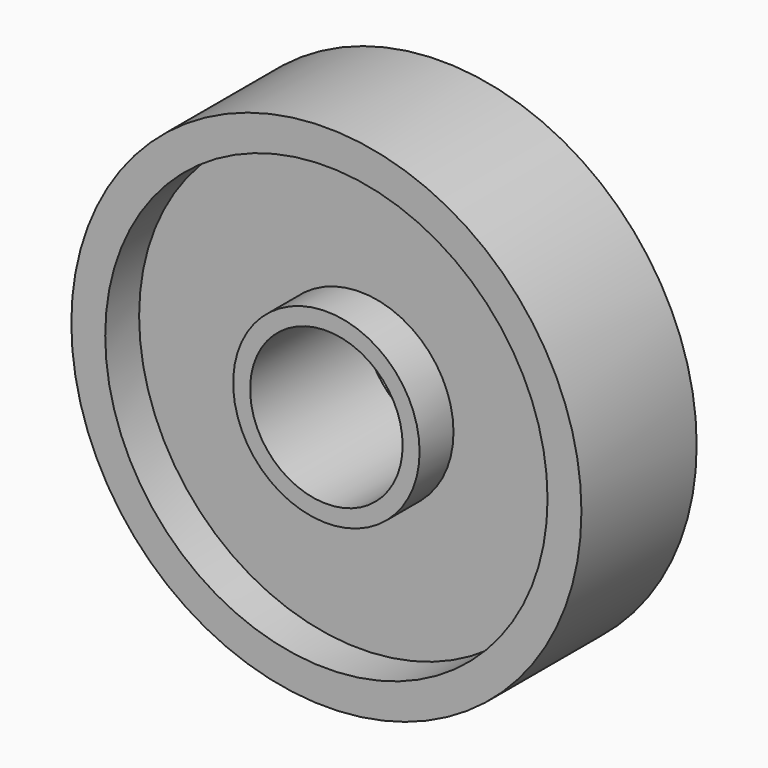
from build123d import *

# Parameters (mm, degrees)
F0_R     = 11
F0_R_2   = 9
F1_DEPTH = 8.5
F0_R_3   = 26.1
F2_DEPTH = 3.5
F0_R_4   = 30.1
F3_DEPTH = 8.5


with BuildPart() as f1:
    # F0 (on Front) → F1 (new body, symmetric)
    with BuildSketch(Plane.XZ):
        Circle(F0_R)
        Circle(F0_R_2, mode=Mode.SUBTRACT)
    extrude(amount=F1_DEPTH, both=True)

    # F0 (on Front) → F2 (join, symmetric)
    with BuildSketch(Plane.XZ):
        Circle(F0_R_3)
        Circle(F0_R, mode=Mode.SUBTRACT)
    extrude(amount=F2_DEPTH, both=True)

    # F0 (on Front) → F3 (join, symmetric)
    with BuildSketch(Plane.XZ):
        Circle(F0_R_4)
        Circle(F0_R_3, mode=Mode.SUBTRACT)
    extrude(amount=F3_DEPTH, both=True)


solid = f1.part
